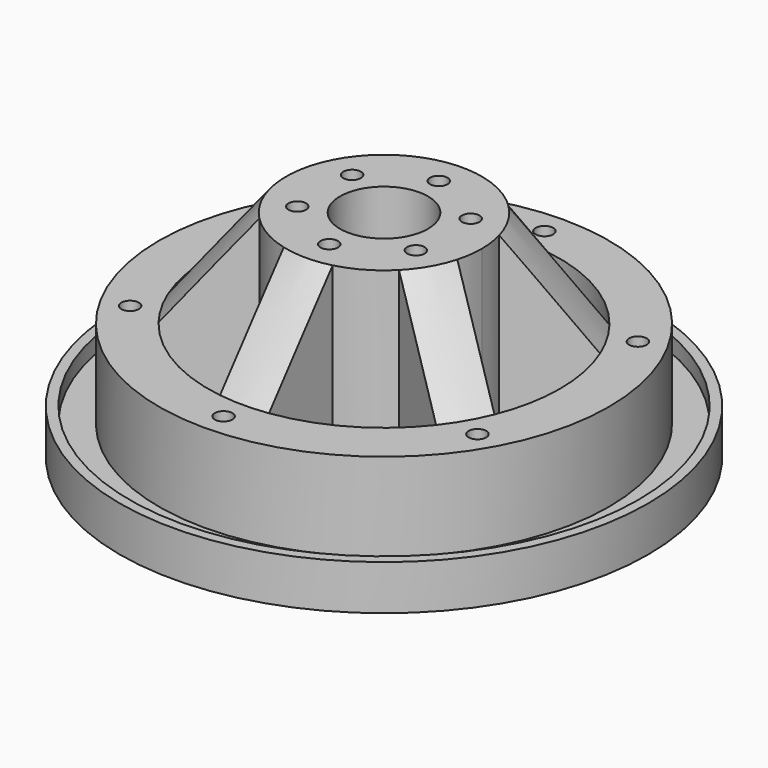
from build123d import *

# Parameters (mm, degrees)
F3_DEPTH      = 25
F3_DEPTH_BACK = 9
F4_R          = 0.9
F5_DEPTH      = 22.001


with BuildPart() as f1:
    # F0 (on Front) → F1 (revolve)
    with BuildSketch(Plane.XZ):
        Polygon((4.5, 0), (27, 0), (27, 4.6), (26, 4.6), (26, 3), (23, 3), (23, 12), (18, 12), (10, 12), (10, 22), (4.5, 22), align=None)
        Polygon((18, 12), (10, 22), (10, 12), align=None)
    revolve(axis=Axis((0, 0, 11.323432), (0, 0, 1)))

    # F2 (on face) → F3 (cut, two sides)
    with BuildSketch(Plane.XY.offset(12)) as f3_sk:
        with BuildLine():
            ThreePointArc((-7.135255, 7.006293), (-5, 8.660254), (-2.5, 9.682458))
            Line((-2.5, 9.682458), (-2.5, 17.825543))
            ThreePointArc((-2.5, 17.825543), (-9, 15.588457), (-14.187373, 11.077835))
            Line((-14.187373, 11.077835), (-7.135255, 7.006293))
        make_face()
        with BuildLine():
            ThreePointArc((-9.635255, -2.676166), (-10, 0), (-9.635255, 2.676166))
            Line((-9.635255, 2.676166), (-16.687373, 6.747708))
            ThreePointArc((-16.687373, 6.747708), (-18, 0), (-16.687373, -6.747708))
            Line((-16.687373, -6.747708), (-9.635255, -2.676166))
        make_face()
        with BuildLine():
            Line((-2.5, -17.825543), (-2.5, -9.682458))
            ThreePointArc((-2.5, -9.682458), (-5, -8.660254), (-7.135255, -7.006293))
            Line((-7.135255, -7.006293), (-14.187373, -11.077835))
            ThreePointArc((-14.187373, -11.077835), (-9, -15.588457), (-2.5, -17.825543))
        make_face()
        with BuildLine():
            Line((14.187373, -11.077835), (7.135255, -7.006293))
            ThreePointArc((7.135255, -7.006293), (5, -8.660254), (2.5, -9.682458))
            Line((2.5, -9.682458), (2.5, -17.825543))
            ThreePointArc((2.5, -17.825543), (9, -15.588457), (14.187373, -11.077835))
        make_face()
        with BuildLine():
            ThreePointArc((9.635255, 2.676166), (9.908394, 1.350454), (10, 0))
            ThreePointArc((10, 0), (9.908394, -1.350454), (9.635255, -2.676166))
            Line((9.635255, -2.676166), (16.687373, -6.747708))
            ThreePointArc((16.687373, -6.747708), (17.668796, -3.437097), (18, 0))
            ThreePointArc((18, 0), (17.668796, 3.437097), (16.687373, 6.747708))
            Line((16.687373, 6.747708), (9.635255, 2.676166))
        make_face()
        with BuildLine():
            ThreePointArc((2.5, 9.682458), (5, 8.660254), (7.135255, 7.006293))
            Line((7.135255, 7.006293), (14.187373, 11.077835))
            ThreePointArc((14.187373, 11.077835), (9, 15.588457), (2.5, 17.825543))
            Line((2.5, 17.825543), (2.5, 9.682458))
        make_face()
    extrude(amount=F3_DEPTH, mode=Mode.SUBTRACT)
    extrude(f3_sk.sketch, amount=-F3_DEPTH_BACK, mode=Mode.SUBTRACT)

    # F4 (on face) → F5 (cut, through all)
    with BuildSketch(Plane.XY.offset(22)):
        with Locations((0, 7)):
            Circle(F4_R)
        with Locations((0, 20.5)):
            Circle(F4_R)
        with Locations((-6.062178, 3.5)):
            Circle(F4_R)
        with Locations((-17.753521, 10.25)):
            Circle(F4_R)
        with Locations((-6.062178, -3.5)):
            Circle(F4_R)
        with Locations((-17.753521, -10.25)):
            Circle(F4_R)
        with Locations((0, -7)):
            Circle(F4_R)
        with Locations((0, -20.5)):
            Circle(F4_R)
        with Locations((6.062178, -3.5)):
            Circle(F4_R)
        with Locations((17.753521, -10.25)):
            Circle(F4_R)
        with Locations((6.062178, 3.5)):
            Circle(F4_R)
        with Locations((17.753521, 10.25)):
            Circle(F4_R)
    extrude(amount=-F5_DEPTH, mode=Mode.SUBTRACT)


solid = f1.part
